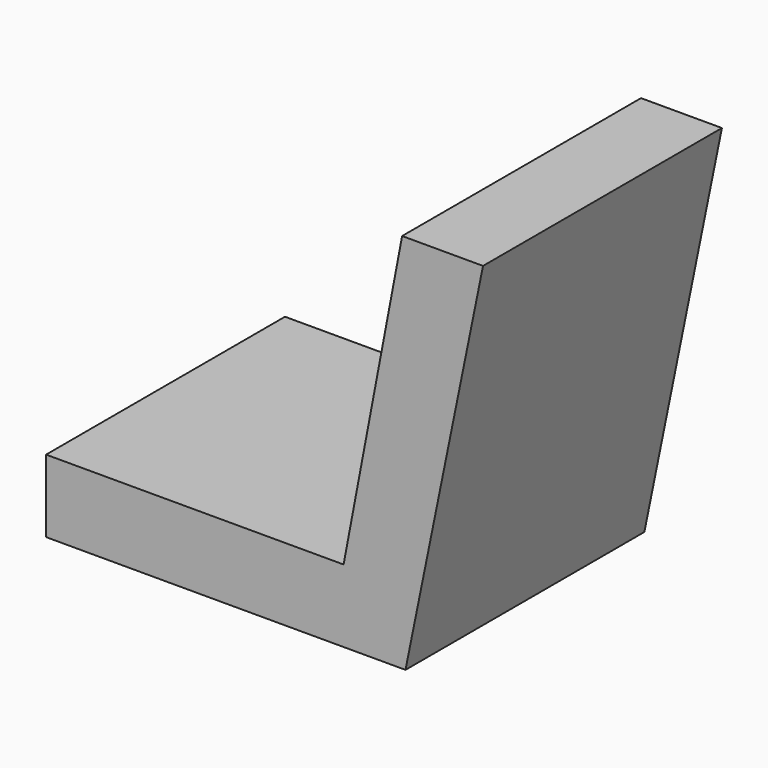
from build123d import *

# Parameters (mm, degrees)
F1_DEPTH      = 12.7
F1_DEPTH_BACK = 12.7


with BuildPart() as f1:
    # F0 (on Front) → F1 (new body, two sides)
    with BuildSketch(Plane.XZ) as f1_sk:
        Polygon((-16.836638, -4.748795), (13.733465, -4.748795), (20.329219, 27.647123), (13.446786, 27.647123), (8.468809, 1.429771), (-16.836638, 1.429771), align=None)
    extrude(amount=F1_DEPTH)
    extrude(f1_sk.sketch, amount=-F1_DEPTH_BACK)


solid = f1.part
